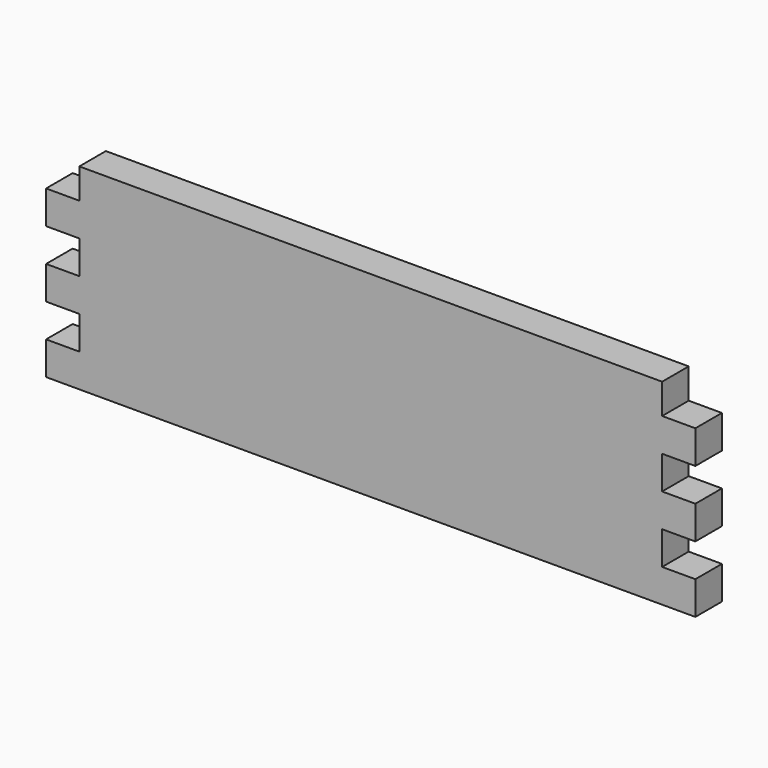
from build123d import *

# Parameters (mm, degrees)
F0_W     = 430
F0_H     = 130
F1_DEPTH = 22
F2_W     = 22
F2_H     = 22
F2_H_2   = 20
F3_DEPTH = 25


with BuildPart() as f1:
    # F0 (on Front) → F1 (new body)
    with BuildSketch(Plane.XZ):
        with Locations((215, 65)):
            Rectangle(F0_W, F0_H)
    extrude(amount=F1_DEPTH)

    # F2 (on face) → F3 (cut)
    with BuildSketch(Plane.XZ.offset(22)):
        with Locations((11, 33)):
            Rectangle(F2_W, F2_H)
        with Locations((11, 77)):
            Rectangle(F2_W, F2_H)
        with Locations((419, 77)):
            Rectangle(F2_W, F2_H)
        with Locations((419, 33)):
            Rectangle(F2_W, F2_H)
        with Locations((11, 120)):
            Rectangle(F2_W, F2_H_2)
        with Locations((419, 120)):
            Rectangle(F2_W, F2_H_2)
    extrude(amount=-F3_DEPTH, mode=Mode.SUBTRACT)


solid = f1.part
